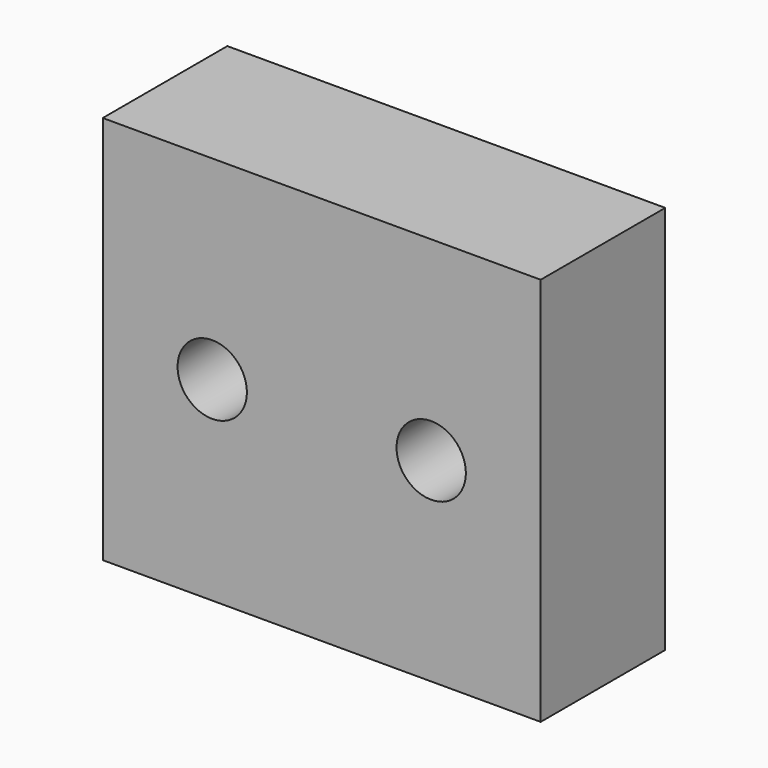
from build123d import *

# Parameters (mm, degrees)
F0_W           = 90
F0_H           = 80
F1_DEPTH       = 32
F3_D           = 8.8
F3_CBORE_D     = 14.25
F3_CBORE_DEPTH = 15


with BuildPart() as f1:
    # F0 (on Front) → F1 (new body)
    with BuildSketch(Plane.XZ):
        with Locations((45, 40)):
            Rectangle(F0_W, F0_H)
        with Locations((45, 40)):
            Rectangle(F0_W, F0_H)
    extrude(amount=F1_DEPTH)

    # F3 (through all)
    with Locations(Plane.XZ.offset(32)):
        with Locations((22.5, 40), (67.5, 40)):
            CounterBoreHole(F3_D / 2, F3_CBORE_D / 2, F3_CBORE_DEPTH)


solid = f1.part
